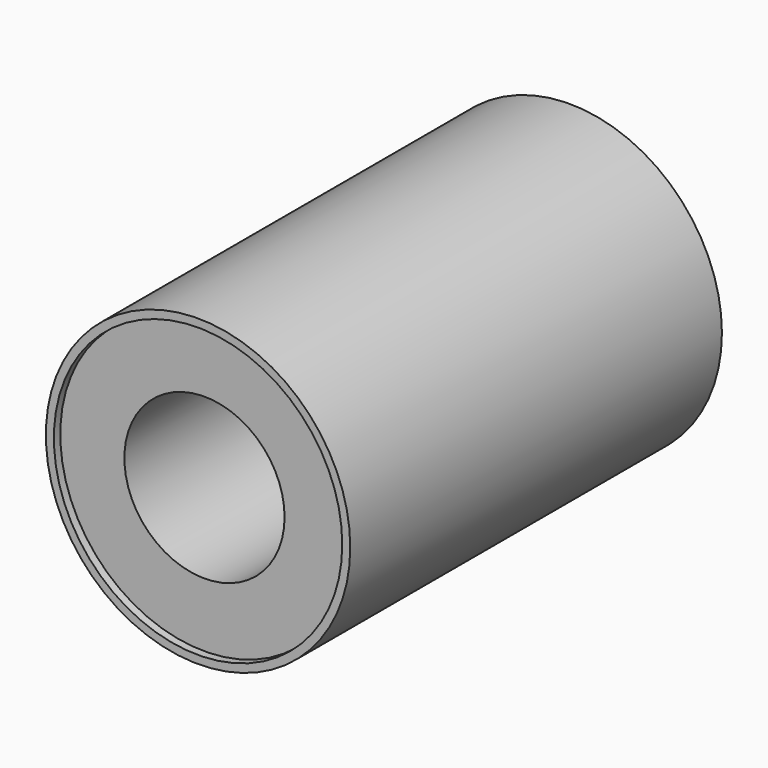
from build123d import *

# Parameters (mm, degrees)
F0_R          = 9
F0_R_2        = 5
F1_DEPTH      = 14
F1_DEPTH_BACK = 14
F0_R_3        = 9.5
F2_DEPTH      = 14.5
F2_DEPTH_BACK = 14.5


with BuildPart() as f1:
    # F0 (on Front) → F1 (new body, two sides)
    with BuildSketch(Plane.XZ) as f1_sk:
        Circle(F0_R)
        Circle(F0_R_2, mode=Mode.SUBTRACT)
    extrude(amount=F1_DEPTH)
    extrude(f1_sk.sketch, amount=-F1_DEPTH_BACK)

    # F0 (on Front) → F2 (join, two sides)
    with BuildSketch(Plane.XZ) as f2_sk:
        Circle(F0_R_3)
        Circle(F0_R, mode=Mode.SUBTRACT)
    extrude(amount=F2_DEPTH)
    extrude(f2_sk.sketch, amount=-F2_DEPTH_BACK)


solid = f1.part
